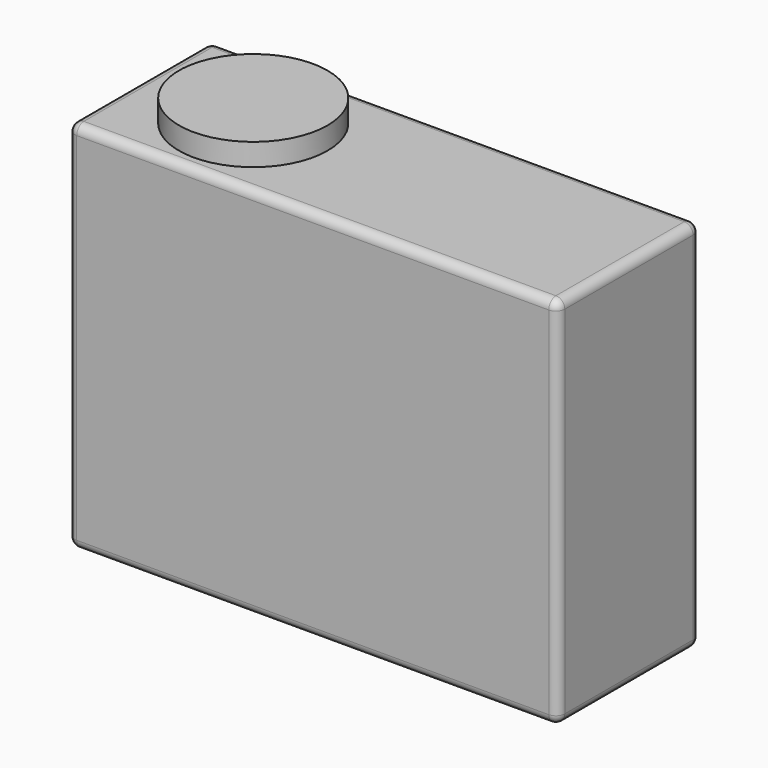
from build123d import *

# Parameters (mm, degrees)
F0_W     = 275
F0_H     = 210
F1_DEPTH = 100
F2_R     = 5
F3_R     = 41.712108
F4_DEPTH = 12.5


with BuildPart() as f1:
    # F0 (on Front) → F1 (new body)
    with BuildSketch(Plane.XZ):
        Rectangle(F0_W, F0_H)
    extrude(amount=F1_DEPTH)

    # F2
    f2_edges = [f1.edges().sort_by_distance(p)[0] for p in [
        (-137.5, -50, 105),
        (-137.5, -50, -105),
        (-137.5, 0, 0),
        (-137.5, -100, 0),
        (137.5, -50, 105),
        (0, 0, 105),
        (0, -100, 105),
        (0, 0, -105),
        (137.5, 0, 0),
        (137.5, -50, -105),
        (137.5, -100, 0),
        (0, -100, -105),
    ]]
    fillet(f2_edges, radius=F2_R)

    # F3 (on face) → F4 (join)
    with BuildSketch(Plane.XY.offset(105)):
        with Locations((-73.406562, -50)):
            Circle(F3_R)
    extrude(amount=F4_DEPTH)


solid = f1.part
